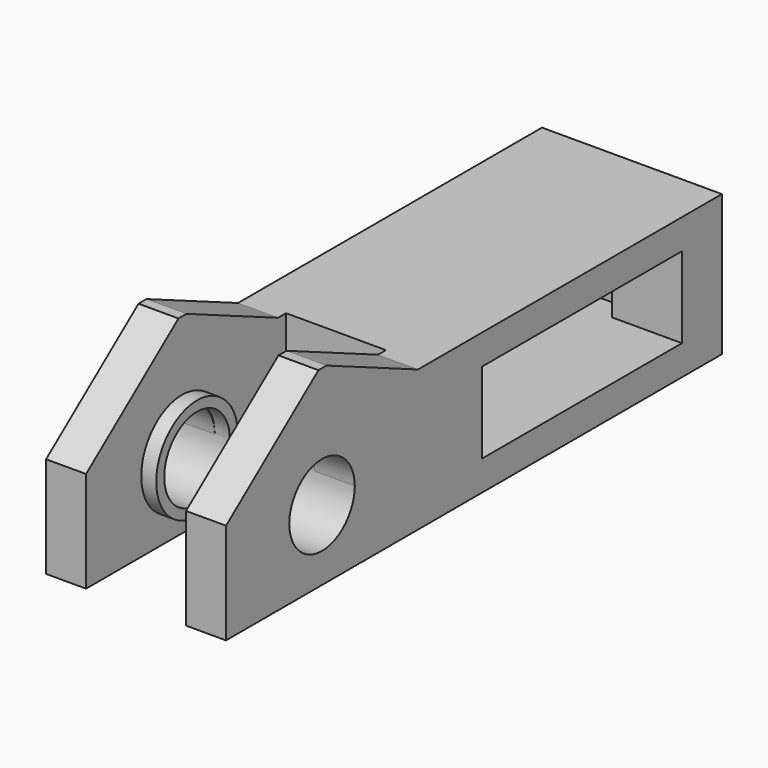
from build123d import *

# Parameters (mm, degrees)
SKETCH_R        = 4.1
SKETCH_W        = 25
SKETCH_H        = 8.1
PAD_DEPTH       = 18
SKETCH001_W     = 25
SKETCH001_H     = 10
POCKET_DEPTH    = 25
SKETCH002_R     = 5.1
SKETCH002_R_2   = 4.1
PAD001_DEPTH    = 18
SKETCH003_W     = 24
SKETCH003_H     = 7
POCKET001_DEPTH = 25
SKETCH004_R     = 1.6
POCKET002_DEPTH = 5
SKETCH005_W     = 8.1
SKETCH005_H     = 4
POCKET003_DEPTH = 2
POCKET004_DEPTH = 25


with BuildPart() as part:
    # Sketch → Pad (new body)
    with BuildSketch(Plane(origin=(-15, 105, 17), x_dir=(0, 1, 0), z_dir=(1, 0, 0))):
        Polygon((-68.082832, 24.585315), (-44.082832, 24.585315), (-44.082832, 19.585315), (-6.082832, 19.585315), (-6.082832, 5.485315), (-68.082832, 5.485315), align=None)
        with Locations((-56.082832, 12.485315)):
            Circle(SKETCH_R, mode=Mode.SUBTRACT)
        with Locations((-23.582832, 12.535315)):
            Rectangle(SKETCH_W, SKETCH_H, mode=Mode.SUBTRACT)
    extrude(amount=PAD_DEPTH)

    # Sketch001 → Pocket (cut)
    with BuildSketch(Plane(origin=(-15, 105, 41.585315), x_dir=(0, -1, 0), z_dir=(0, 0, 1))):
        with Locations((55.582832, 9)):
            Rectangle(SKETCH001_W, SKETCH001_H)
    extrude(amount=-POCKET_DEPTH, mode=Mode.SUBTRACT)

    # Sketch002 → Pad001 (new body)
    with BuildSketch(Plane(origin=(3, 105, 17), x_dir=(0, 1, 0), z_dir=(1, 0, 0))):
        with Locations((-56.082832, 12.585315)):
            Circle(SKETCH002_R)
        with Locations((-56.082832, 12.585315)):
            Circle(SKETCH002_R_2, mode=Mode.SUBTRACT)
    extrude(amount=-PAD001_DEPTH)

    # Sketch003 → Pocket001 (cut)
    with BuildSketch(Plane(origin=(-15, 105, 36.585315), x_dir=(0, -1, 0), z_dir=(0, 0, 1))):
        with Locations((55.082832, 9)):
            Rectangle(SKETCH003_W, SKETCH003_H)
    extrude(amount=-POCKET001_DEPTH, mode=Mode.SUBTRACT)

    # Sketch004 → Pocket002 (cut)
    with BuildSketch(Plane(origin=(-15, 98.917168, 17), x_dir=(0, 0, 1), z_dir=(0, 1, 0))):
        with Locations((12.485315, 9)):
            Circle(SKETCH004_R)
    extrude(amount=-POCKET002_DEPTH, mode=Mode.SUBTRACT)

    # Sketch005 → Pocket003 (cut)
    with BuildSketch(Plane(origin=(-15, 93.917168, 17), x_dir=(0, 0, -1), z_dir=(0, -1, 0))):
        with Locations((-12.535315, 9)):
            Rectangle(SKETCH005_W, SKETCH005_H)
    extrude(amount=-POCKET003_DEPTH, mode=Mode.SUBTRACT)

    # Sketch006 → Pocket004 (cut)
    with BuildSketch(Plane(origin=(3, 105, 17), x_dir=(0, 1, 0), z_dir=(1, 0, 0))):
        Polygon((-55.529856, 24.585315), (-44.082832, 19.585315), (-44.082832, 24.585315), align=None)
        Polygon((-56.529856, 24.585315), (-68.082832, 15.585315), (-68.082832, 24.585315), align=None)
    extrude(amount=-POCKET004_DEPTH, mode=Mode.SUBTRACT)


solid = part.part
